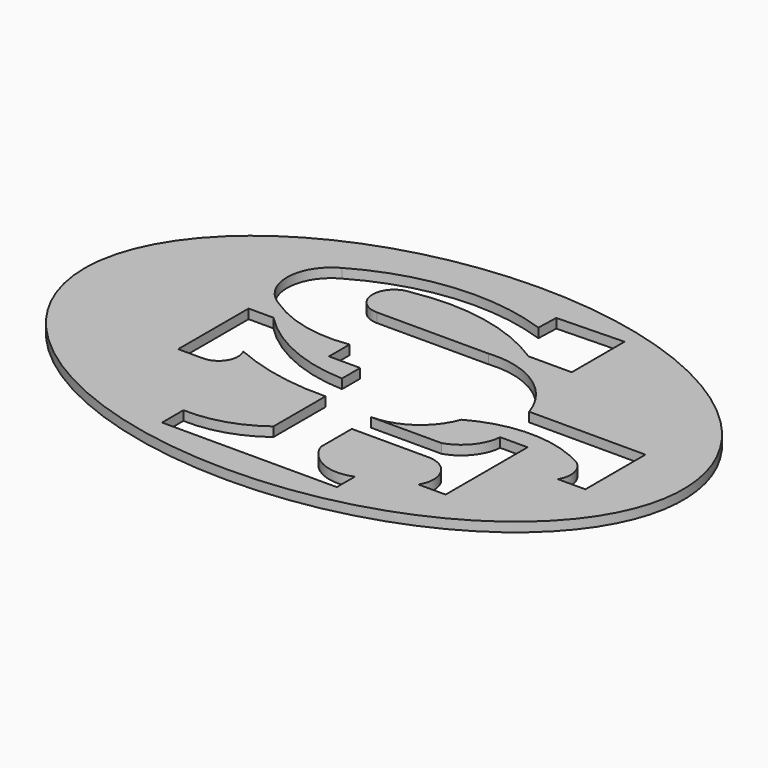
from build123d import *

# Parameters (mm, degrees)
F1_DEPTH = 0.79375


with BuildPart() as f1:
    # F0 (on Top) → F1 (new body)
    with BuildSketch(Plane.XY):
        with BuildLine():
            add(Edge.make_bspline(
                [(13.082785, -38.24288), (13.082785, -66.895), (50.911156, -52.56894), (88.739527, -38.24288), (50.911156, -23.916819), (13.082785, -9.590759), (13.082785, -38.24288)],
                knots=[0, 0, 0, 2.094395, 2.094395, 4.18879, 4.18879, 6.283185, 6.283185, 6.283185], degree=2, weights=[1, 0.5, 1, 0.5, 1, 0.5, 1]))
        make_face()
        with BuildLine():
            ThreePointArc((26.27996, -27.644967), (33.825485, -25.243575), (41.684209, -26.214183))
            Line((41.684209, -26.214183), (41.74307, -24.401758))
            Line((41.74307, -24.401758), (47.371062, -24.243276))
            Line((47.371062, -24.243276), (47.371062, -29.81151))
            Line((47.371062, -29.81151), (43.728425, -29.81151))
            ThreePointArc((43.728425, -29.81151), (38.102896, -27.533395), (32.033639, -27.510897))
            ThreePointArc((32.033639, -27.510897), (30.212321, -29.332216), (32.033639, -31.153535))
            Line((32.033639, -31.153535), (41.427812, -31.153535))
            ThreePointArc((41.427812, -31.153535), (45.903339, -32.27411), (48.696136, -35.946482))
            Line((48.696136, -35.946482), (58.490696, -35.946482))
            Line((58.490696, -35.946482), (58.490696, -42.273168))
            Line((58.490696, -42.273168), (56.190083, -42.273168))
            ThreePointArc((56.190083, -42.273168), (56.406522, -40.840604), (55.614928, -39.627151))
            ThreePointArc((55.614928, -39.627151), (50.767965, -38.343162), (45.921001, -39.627151))
            ThreePointArc((45.921001, -39.627151), (44.0205, -42.102067), (41.044375, -43.040038))
            Line((41.044375, -43.040038), (46.987629, -43.040038))
            ThreePointArc((46.987629, -43.040038), (48.696136, -41.88195), (49.47996, -39.972556))
            Line((49.47996, -39.972556), (51.780573, -39.972556))
            Line((51.780573, -39.972556), (51.780573, -48.599855))
            Line((51.780573, -48.599855), (49.47996, -48.599855))
            ThreePointArc((49.47996, -48.599855), (49.536636, -46.310358), (47.56278, -45.148936))
            Line((47.56278, -45.148936), (41.115592, -45.148936))
            Line((41.115592, -45.148936), (41.115592, -48.408137))
            ThreePointArc((41.115592, -48.408137), (42.908785, -50.313433), (45.525103, -50.337496))
            Line((45.525103, -50.337496), (45.525103, -52.242496))
            Line((45.525103, -52.242496), (30.802441, -52.242496))
            Line((30.802441, -52.242496), (30.802441, -49.989473))
            ThreePointArc((30.802441, -49.989473), (33.99973, -49.566383), (36.866636, -48.08905))
            Line((36.866636, -48.08905), (36.866636, -42.607751))
            ThreePointArc((36.866636, -42.607751), (32.667174, -42.252946), (28.64468, -40.995602))
            ThreePointArc((28.64468, -40.995602), (28.6038, -42.615464), (27.193747, -43.413822))
            Line((27.193747, -43.413822), (25.097952, -43.413822))
            Line((25.097952, -43.413822), (25.097952, -35.997942))
            Line((25.097952, -35.997942), (27.193747, -35.997942))
            ThreePointArc((27.193747, -35.997942), (31.27665, -38.833875), (36.122591, -39.942687))
            Line((36.122591, -39.942687), (36.122591, -38.023631))
            Line((36.122591, -38.023631), (33.490801, -38.023631))
            Line((33.490801, -38.023631), (33.490801, -35.852152))
            ThreePointArc((33.490801, -35.852152), (29.734237, -35.722119), (26.27996, -34.240006))
            ThreePointArc((26.27996, -34.240006), (24.296454, -30.942486), (26.27996, -27.644967))
        make_face(mode=Mode.SUBTRACT)
    extrude(amount=F1_DEPTH)


solid = f1.part
